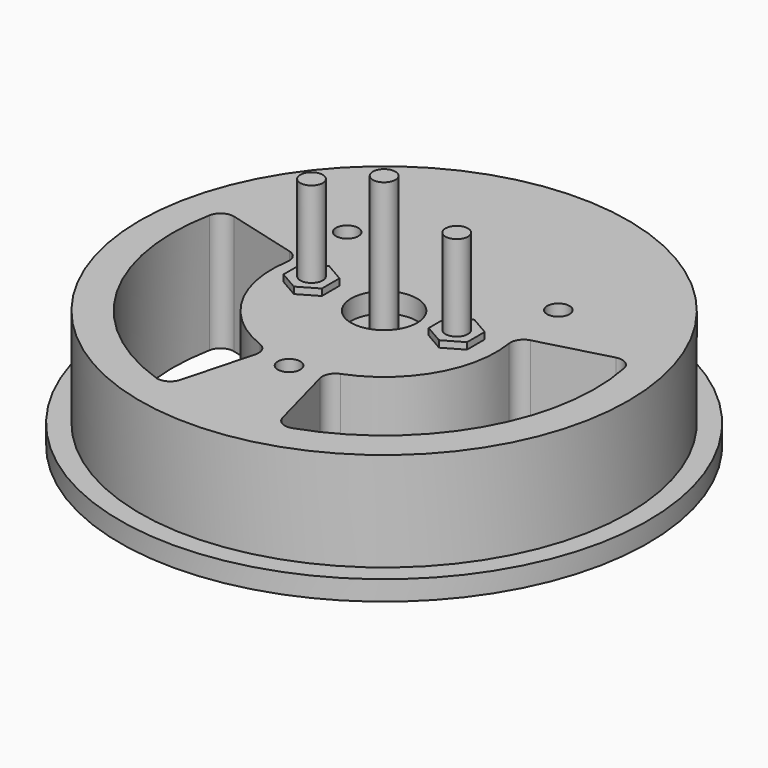
from build123d import *

# Parameters (mm, degrees)
CYLINDER_R               = 2.95
CYLINDER_DEPTH           = 7
CYLINDER001_R            = 1.7
CYLINDER001_DEPTH        = 30
PAD002_DEPTH             = 2.7
PRISM_DEPTH              = 12
CYLINDER1003_R           = 8.2
CYLINDER1003_DEPTH       = 15
CLONE139_PLACEMENT_ANGLE = 30
BOX251_W                 = 30.6
BOX251_H                 = 7
BOX251_DEPTH             = 4
CYLINDER1015_R           = 5
CYLINDER1015_DEPTH       = 10
CLONE140_PLACEMENT_ANGLE = 30
PAD032_DEPTH             = 18
CYLINDER1020_R           = 5
CYLINDER1020_DEPTH       = 10
CLONE220_PITCH_ANGLE     = 90
CLONE220_PLACEMENT_ANGLE = 90
PAD031_DEPTH             = 13
CLONE219_PITCH_ANGLE     = 90
CLONE219_PLACEMENT_ANGLE = -90


with BuildPart() as m3bolthead:
    # Cylinder → Cylinder (new body)
    with BuildSketch(Plane.XY):
        Circle(CYLINDER_R)
    extrude(amount=CYLINDER_DEPTH)


with BuildPart() as m3bolt:
    # Cylinder001 → Cylinder001 (new body)
    with BuildSketch(Plane.XY.offset(6)):
        Circle(CYLINDER001_R)
    extrude(amount=CYLINDER001_DEPTH)

    # Fusion: union M3BoltHead
    add(m3bolthead.part)


with BuildPart() as m3nuthousing:
    # Sketch003 → Pad002 (new body)
    with BuildSketch(Plane.XY):
        Polygon((0, 0), (1.674316, 2.9), (21.674316, 2.9), (21.674316, -2.9), (1.674316, -2.9), align=None)
    extrude(amount=PAD002_DEPTH)


with BuildPart() as m3nut:
    # Prism → Prism (new body)
    with BuildSketch(Plane.XY):
        Polygon((3.35, 0), (1.675, 2.901185), (-1.675, 2.901185), (-3.35, 0), (-1.675, -2.901185), (1.675, -2.901185), align=None)
    extrude(amount=PRISM_DEPTH)


with BuildPart() as obj1:
    # Cylinder1003 → Cylinder1003 (new body)
    with BuildSketch(Plane.XY):
        Circle(CYLINDER1003_R)
    extrude(amount=CYLINDER1003_DEPTH)


with BuildPart() as clone_of_m3nut005:
    # Clone139 base: copy of M3Nut
    add(m3nut.part)


with BuildPart() as clone_of_m3nut005_1:
    # Clone139 placement: moved
    add(clone_of_m3nut005.part.moved(Location((11, 0, 7))).rotate(Axis((11, 0, 7), (0, 0, 1)), CLONE139_PLACEMENT_ANGLE))


with BuildPart() as cube015:
    # Box251 → Box251 (new body)
    with BuildSketch(Plane(origin=(-15.3, -3.5, 0), x_dir=(1, 0, 0), z_dir=(0, 0, 1))):
        with Locations((15.3, 3.5)):
            Rectangle(BOX251_W, BOX251_H)
    extrude(amount=BOX251_DEPTH)


with BuildPart() as clone_of_m3bolt039:
    # Clone137 base: copy of M3Bolt
    add(m3bolt.part)


with BuildPart() as clone_of_m3bolt039_1:
    # Clone137 placement: moved
    add(clone_of_m3bolt039.part.moved(Location((11, 0, -4))))


with BuildPart() as clone_of_m3bolt040:
    # Clone138 base: copy of M3Bolt
    add(m3bolt.part)


with BuildPart() as clone_of_m3bolt040_1:
    # Clone138 placement: moved
    add(clone_of_m3bolt040.part.moved(Location((-11, 0, -4))))


with BuildPart() as cylinder021:
    # Cylinder1015 → Cylinder1015 (new body)
    with BuildSketch(Plane.XY.offset(4)):
        Circle(CYLINDER1015_R)
    extrude(amount=CYLINDER1015_DEPTH)


with BuildPart() as obj2:
    # Clone136 base: copy of obj1
    add(obj1.part)


with BuildPart() as obj2_1:
    # Clone136 placement: moved
    add(obj2.part.moved(Location((0, 0, -6))))


with BuildPart() as obj3:
    # Clone140 base: copy of M3Nut
    add(m3nut.part)


with BuildPart() as obj3_1:
    # Clone140 placement: moved
    add(obj3.part.moved(Location((-11, 0, 7))).rotate(Axis((-11, 0, 7), (0, 0, 1)), CLONE140_PLACEMENT_ANGLE))

    # Fusion062: union Clone of M3Nut005, Cube015, Clone of M3Bolt039, Clone of M3Bolt040, Cylinder021, obj2
    add(clone_of_m3nut005_1.part)
    add(cube015.part)
    add(clone_of_m3bolt039_1.part)
    add(clone_of_m3bolt040_1.part)
    add(cylinder021.part)
    add(obj2_1.part)


with BuildPart() as clone_of_m3bolt134:
    # Clone449 base: copy of M3Bolt
    add(m3bolt.part)


with BuildPart() as clone_of_m3bolt134_1:
    # Clone449 placement: moved
    add(clone_of_m3bolt134.part.moved(Location((16, 13, -4))))


with BuildPart() as clone_of_m3bolt076:
    # Clone222 base: copy of M3Bolt
    add(m3bolt.part)


with BuildPart() as clone_of_m3bolt076_1:
    # Clone222 placement: moved
    add(clone_of_m3bolt076.part.moved(Location((0, -18, -4))))


with BuildPart() as pad032:
    # Sketch044 → Pad032 (new body)
    with BuildSketch(Plane.XY):
        with BuildLine():
            ThreePointArc((-31.393017, 6.203103), (-27.712803, -16.000017), (-10.324426, -30.288715))
            ThreePointArc((-10.324426, -30.288715), (-8.737473, -30.160109), (-7.747298, -28.913308))
            Line((-4.890242, -18.250631), (-7.747298, -28.913308))
            ThreePointArc((-4.890242, -18.250631), (-5.039745, -16.82567), (-6.103978, -15.866362))
            ThreePointArc((-16.792666, 2.646954), (-14.722425, -8.500012), (-6.103978, -15.866362))
            ThreePointArc((-16.792666, 2.646954), (-17.091339, 4.048258), (-18.25064, 4.890209))
            Line((-18.25064, 4.890209), (-28.913318, 7.747265))
            ThreePointArc((-28.913318, 7.747265), (-30.488167, 7.513145), (-31.393017, 6.203103))
        make_face()
        with BuildLine():
            Line((4.890242, -18.250631), (7.747298, -28.913308))
            ThreePointArc((7.747298, -28.913308), (8.737473, -30.160109), (10.324426, -30.288715))
            ThreePointArc((10.324426, -30.288715), (27.712813, -16), (31.393009, 6.203143))
            ThreePointArc((31.393009, 6.203143), (30.488158, 7.513181), (28.91331, 7.747298))
            Line((18.250631, 4.890242), (28.91331, 7.747298))
            ThreePointArc((18.250631, 4.890242), (17.09133, 4.048288), (16.792662, 2.646981))
            ThreePointArc((6.103979, -15.866362), (14.722432, -8.5), (16.792662, 2.646981))
            ThreePointArc((6.103979, -15.866362), (5.039745, -16.82567), (4.890242, -18.250631))
        make_face()
    extrude(amount=PAD032_DEPTH)


with BuildPart() as fusion171:
    # Clone450 base: copy of M3Bolt
    add(m3bolt.part)


with BuildPart() as fusion171_1:
    # Clone450 placement: moved
    add(fusion171.part.moved(Location((-16, 13, -4))))

    # Fusion171: union Clone of M3Bolt134, Clone of M3Bolt076, Pad032
    add(clone_of_m3bolt134_1.part)
    add(clone_of_m3bolt076_1.part)
    add(pad032.part)


with BuildPart() as obj4:
    # Clone221 base: copy of obj3
    add(obj3_1.part)


with BuildPart() as fusion083:
    # Cylinder1020 → Cylinder1020 (new body)
    with BuildSketch(Plane.XY.offset(14)):
        Circle(CYLINDER1020_R)
    extrude(amount=CYLINDER1020_DEPTH)

    # Fusion083: union obj4
    add(obj4.part)


with BuildPart() as clone_of_m3nuthousing021:
    # Clone220 base: copy of M3NutHousing
    add(m3nuthousing.part)


with BuildPart() as clone_of_m3nuthousing021_1:
    # Clone220 pitch: moved
    add(clone_of_m3nuthousing021.part.rotate(Axis((0, 0, 0), (0, 1, 0)), CLONE220_PITCH_ANGLE))


with BuildPart() as clone_of_m3nuthousing021_2:
    # Clone220 placement: moved
    add(clone_of_m3nuthousing021_1.part.moved(Location((0, 24.5, 11.5))).rotate(Axis((0, 24.5, 11.5), (0, 0, 1)), CLONE220_PLACEMENT_ANGLE))


with BuildPart() as pad031:
    # Sketch043 → Pad031 (new body)
    with BuildSketch(Plane(origin=(0, 19.5, 0), x_dir=(1, 0, 0), z_dir=(0, 0, 1))):
        Polygon((-11.5, 0), (11.5, 0), (11.5, 3.5), (5, 10), (5, 35), (2.5, 35), (2.5, 10), (9, 3.5), (-9, 3.5), (-2.5, 10), (-2.5, 35), (-5, 35), (-5, 10), (-11.5, 3.5), align=None)
    extrude(amount=PAD031_DEPTH)


with BuildPart() as fusion082:
    # Clone219 base: copy of M3Bolt
    add(m3bolt.part)


with BuildPart() as fusion082_1:
    # Clone219 pitch: moved
    add(fusion082.part.rotate(Axis((0, 0, 0), (0, 1, 0)), CLONE219_PITCH_ANGLE))


with BuildPart() as fusion082_2:
    # Clone219 placement: moved
    add(fusion082_1.part.moved(Location((0, 56.5, 8))).rotate(Axis((0, 56.5, 8), (0, 0, 1)), CLONE219_PLACEMENT_ANGLE))

    # Fusion082: union Clone of M3NutHousing021, Pad031
    add(clone_of_m3nuthousing021_2.part)
    add(pad031.part)


with BuildPart() as obj5:
    # Sketch042 → Revolution007 (revolve)
    with BuildSketch(Plane.XZ):
        Polygon((0, 0), (40, 0), (40, 3), (37, 3), (37, 18), (0, 18), align=None)
    revolve(axis=Axis((0, 0, 0), (0, 0, 1)))

    # Cut067: cut Fusion082
    add(fusion082_2.part, mode=Mode.SUBTRACT)

    # Cut068: cut Fusion083
    add(fusion083.part, mode=Mode.SUBTRACT)

    # Cut152: cut Fusion171
    add(fusion171_1.part, mode=Mode.SUBTRACT)


solid = Compound([m3bolt.part, m3nuthousing.part, m3nut.part, obj1.part, obj3_1.part, obj5.part])
